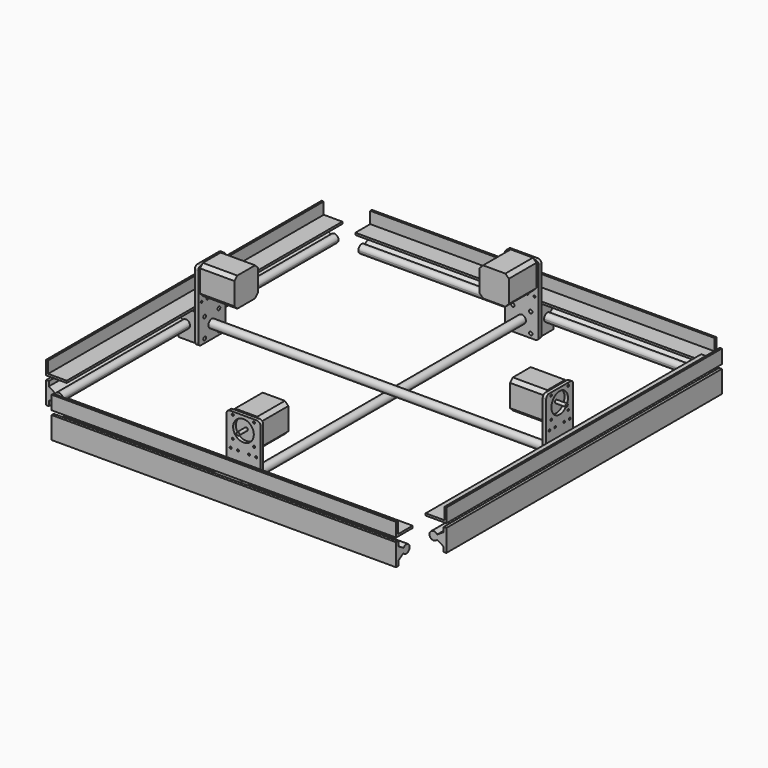
from build123d import *

# Parameters (mm, degrees)
F1_DEPTH  = 500
F4_DEPTH  = 19.5
F5_R      = 2.5
F6_DEPTH  = 10
F8_DEPTH  = 500
F9_W      = 49.0151400566
F9_H      = 102.2739973664
F9_R      = 2.5
F9_R_2    = 1.5
F9_R_3    = 15
F10_DEPTH = 5
F11_W     = 42.3
F11_H     = 42.3
F12_DEPTH = 50
F13_SIZE  = 5
F14_R     = 1.5
F15_DEPTH = 10
F16_R     = 2.25
F17_DEPTH = 15
F18_R     = 5
F19_R     = 6
F20_DEPTH = 500
F24_ANGLE = 90


with BuildPart() as f1:
    # F0 (on Right) → F1 (new body)
    with BuildSketch(Plane.YZ):
        with BuildLine():
            ThreePointArc((-5.0603486749, -3.2237976501), (1.6789740842, -5.7602991263), (6, 0))
            ThreePointArc((6, 0), (1.6789740842, 5.7602991263), (-5.0603486749, 3.2237976501))
            Line((-5.0603486749, 3.2237976501), (0, 0))
            Line((0, 0), (-5.0603486749, -3.2237976501))
        make_face()
        with BuildLine():
            Line((0, 0), (-5.0603486749, 3.2237976501))
            ThreePointArc((-5.0603486749, 3.2237976501), (-6, 0), (-5.0603486749, -3.2237976501))
            Line((-5.0603486749, -3.2237976501), (0, 0))
        make_face()
        with BuildLine():
            ThreePointArc((-5.0603486749, -3.2237976501), (-6, 0), (-5.0603486749, 3.2237976501))
            Line((-5.0603486749, 3.2237976501), (-14.5, 9.2375187817))
            Line((-14.5, 9.2375187817), (-14.5, -9.2375187817))
            Line((-14.5, -9.2375187817), (-5.0603486749, -3.2237976501))
        make_face()
        Polygon((-14.5, -9.2375187817), (-14.5, 9.2375187817), (-14.5, 16), (-18.5, 16), (-18.5, -16), (-14.5, -16), align=None)
    extrude(amount=F1_DEPTH)


with BuildPart() as f4:
    # F3 (on mid) → F4 (new body, symmetric)
    with BuildSketch(Plane.YZ.offset(250)):
        with BuildLine():
            ThreePointArc((-4.5962666587, 3.8567256581), (6, 0), (-4.5962666587, -3.8567256581))
            Line((-4.5962666587, -3.8567256581), (-11, -9.230095943))
            Line((-11, -9.230095943), (-11, -20))
            Line((-11, -20), (17, -20))
            Line((17, -20), (17, 20))
            Line((17, 20), (-11, 20))
            Line((-11, 20), (-11, 9.230095943))
            Line((-11, 9.230095943), (-4.5962666587, 3.8567256581))
        make_face()
    extrude(amount=F4_DEPTH, both=True)

    # F5 (on face) → F6 (cut)
    with BuildSketch(Plane(origin=(0, 17, 0), x_dir=(-1, 0, 0), z_dir=(0, 1, 0))):
        with Locations((-263, 14)):
            Circle(F5_R)
        with Locations((-237, 14)):
            Circle(F5_R)
        with Locations((-263, -14)):
            Circle(F5_R)
        with Locations((-237, -14)):
            Circle(F5_R)
    extrude(amount=-F6_DEPTH, mode=Mode.SUBTRACT)


with BuildPart() as f8:
    # F7 (on face) → F8 (new body, through all)
    with BuildSketch(Plane.YZ.offset(500)):
        Polygon((11.5, 25), (-15.5, 25), (-15.5, 42), (-18.5, 42), (-18.5, 22), (11.5, 22), align=None)
    extrude(amount=-F8_DEPTH)


with BuildPart() as f10:
    # F9 (on face) → F10 (new body)
    with BuildSketch(Plane(origin=(0, 17, 0), x_dir=(-1, 0, 0), z_dir=(0, 1, 0))):
        with Locations((-250, 31.1369986832)):
            Rectangle(F9_W, F9_H)
        with Locations((-263, -14)):
            Circle(F9_R, mode=Mode.SUBTRACT)
        with Locations((-263, 14)):
            Circle(F9_R, mode=Mode.SUBTRACT)
        with Locations((-237, -14)):
            Circle(F9_R, mode=Mode.SUBTRACT)
        with Locations((-237, 14)):
            Circle(F9_R, mode=Mode.SUBTRACT)
        with Locations((-268.5075700283, 35)):
            Circle(F9_R_2, mode=Mode.SUBTRACT)
        with Locations((-265.5, 47.2739973664)):
            Circle(F9_R_2, mode=Mode.SUBTRACT)
        with Locations((-258.0075700283, 35)):
            Circle(F9_R_2, mode=Mode.SUBTRACT)
        with Locations((-265.5, 78.2739973664)):
            Circle(F9_R_2, mode=Mode.SUBTRACT)
        with Locations((-241.9924299717, 35)):
            Circle(F9_R_2, mode=Mode.SUBTRACT)
        with Locations((-231.4924299717, 35)):
            Circle(F9_R_2, mode=Mode.SUBTRACT)
        with Locations((-234.5, 47.2739973664)):
            Circle(F9_R_2, mode=Mode.SUBTRACT)
        with Locations((-250, 62.7739973664)):
            Circle(F9_R_3, mode=Mode.SUBTRACT)
        with Locations((-234.5, 78.2739973664)):
            Circle(F9_R_2, mode=Mode.SUBTRACT)
    extrude(amount=F10_DEPTH)

    # F18
    f18_edges = [f10.edges().sort_by_distance(p)[0] for p in [
        (274.50757, 19.5, 82.273997),
        (225.49243, 19.5, 82.273997),
        (274.50757, 19.5, -20),
        (225.49243, 19.5, -20),
    ]]
    fillet(f18_edges, radius=F18_R)


with BuildPart() as f12:
    # F11 (on face) → F12 (new body)
    with BuildSketch(Plane(origin=(0, 22, 0), x_dir=(-1, 0, 0), z_dir=(0, 1, 0))):
        with Locations((-250, 62.7739973664)):
            Rectangle(F11_W, F11_H)
    extrude(amount=F12_DEPTH)

    # F13
    f13_edges = [f12.edges().sort_by_distance(p)[0] for p in [
        (271.15, 47, 83.923997),
        (228.85, 47, 83.923997),
        (271.15, 47, 41.623997),
        (228.85, 47, 41.623997),
    ]]
    chamfer(f13_edges, length=F13_SIZE)

    # F14 (on face) → F15 (cut)
    with BuildSketch(Plane.XZ.offset(-22)):
        with Locations((234.5, 78.2739973664)):
            Circle(F14_R)
        with Locations((234.5, 47.2739973664)):
            Circle(F14_R)
        with Locations((265.5, 47.2739973664)):
            Circle(F14_R)
        with Locations((265.5, 78.2739973664)):
            Circle(F14_R)
    extrude(amount=-F15_DEPTH, mode=Mode.SUBTRACT)

    # F16 (on face) → F17 (join)
    with BuildSketch(Plane.XZ.offset(-22)):
        with Locations((250, 62.7739973664)):
            Circle(F16_R)
    extrude(amount=F17_DEPTH)


with BuildPart() as f20:
    # F19 (on face) → F20 (new body)
    with BuildSketch(Plane(origin=(0, 22, 0), x_dir=(-1, 0, 0), z_dir=(0, 1, 0))):
        with Locations((-250, 0)):
            Circle(F19_R)
    extrude(amount=F20_DEPTH)


with BuildPart() as f22_1:
    # F22: instance of F10
    add(f10.part.mirror(Plane(origin=(250, 272, 0), x_dir=(-1, 0, 0), z_dir=(0, -1, 0))))


with BuildPart() as f22_2:
    # F22: instance of F12
    add(f12.part.mirror(Plane(origin=(250, 272, 0), x_dir=(-1, 0, 0), z_dir=(0, -1, 0))))


with BuildPart() as f22_3:
    # F22: instance of F4
    add(f4.part.mirror(Plane(origin=(250, 272, 0), x_dir=(-1, 0, 0), z_dir=(0, -1, 0))))


with BuildPart() as f22_4:
    # F22: instance of F8
    add(f8.part.mirror(Plane(origin=(250, 272, 0), x_dir=(-1, 0, 0), z_dir=(0, -1, 0))))


with BuildPart() as f22_5:
    # F22: instance of F1
    add(f1.part.mirror(Plane(origin=(250, 272, 0), x_dir=(-1, 0, 0), z_dir=(0, -1, 0))))


with BuildPart() as f24_1:
    # F24: copy of F12
    add(f12.part.rotate(Axis((250, 272, 49.9871335924), (0, 0, 1)), F24_ANGLE))


with BuildPart() as f24_2:
    # F24: copy of F10
    add(f10.part.rotate(Axis((250, 272, 49.9871335924), (0, 0, 1)), F24_ANGLE))


with BuildPart() as f24_3:
    # F24: copy of F4
    add(f4.part.rotate(Axis((250, 272, 49.9871335924), (0, 0, 1)), F24_ANGLE))


with BuildPart() as f24_4:
    # F24: copy of F1
    add(f1.part.rotate(Axis((250, 272, 49.9871335924), (0, 0, 1)), F24_ANGLE))


with BuildPart() as f24_5:
    # F24: copy of F8
    add(f8.part.rotate(Axis((250, 272, 49.9871335924), (0, 0, 1)), F24_ANGLE))


with BuildPart() as f24_6:
    # F24: copy of F20
    add(f20.part.rotate(Axis((250, 272, 49.9871335924), (0, 0, 1)), F24_ANGLE))


with BuildPart() as f24_1_1:
    # F25: moved
    add(f24_1.part.moved(Location((0, 0, 15))))


with BuildPart() as f24_5_1:
    # F25: moved
    add(f24_5.part.moved(Location((0, 0, 15))))


with BuildPart() as f24_3_1:
    # F25: moved
    add(f24_3.part.moved(Location((0, 0, 15))))


with BuildPart() as f24_4_1:
    # F25: moved
    add(f24_4.part.moved(Location((0, 0, 15))))


with BuildPart() as f24_6_1:
    # F25: moved
    add(f24_6.part.moved(Location((0, 0, 15))))


with BuildPart() as f24_2_1:
    # F25: moved
    add(f24_2.part.moved(Location((0, 0, 15))))


with BuildPart() as f27_1:
    # F27: instance of F24_1
    add(f24_1_1.part.mirror(Plane(origin=(250, 272, 15), x_dir=(0, 1, 0), z_dir=(1, 0, 0))))


with BuildPart() as f27_2:
    # F27: instance of F24_2
    add(f24_2_1.part.mirror(Plane(origin=(250, 272, 15), x_dir=(0, 1, 0), z_dir=(1, 0, 0))))


with BuildPart() as f27_3:
    # F27: instance of F24_3
    add(f24_3_1.part.mirror(Plane(origin=(250, 272, 15), x_dir=(0, 1, 0), z_dir=(1, 0, 0))))


with BuildPart() as f27_4:
    # F27: instance of F24_4
    add(f24_4_1.part.mirror(Plane(origin=(250, 272, 15), x_dir=(0, 1, 0), z_dir=(1, 0, 0))))


with BuildPart() as f27_5:
    # F27: instance of F24_5
    add(f24_5_1.part.mirror(Plane(origin=(250, 272, 15), x_dir=(0, 1, 0), z_dir=(1, 0, 0))))


solid = Compound([f1.part, f4.part, f8.part, f10.part, f12.part, f20.part, f22_1.part, f22_2.part, f22_3.part, f22_4.part, f22_5.part, f24_1_1.part, f24_5_1.part, f24_3_1.part, f24_4_1.part, f24_6_1.part, f24_2_1.part, f27_1.part, f27_2.part, f27_3.part, f27_4.part, f27_5.part])
